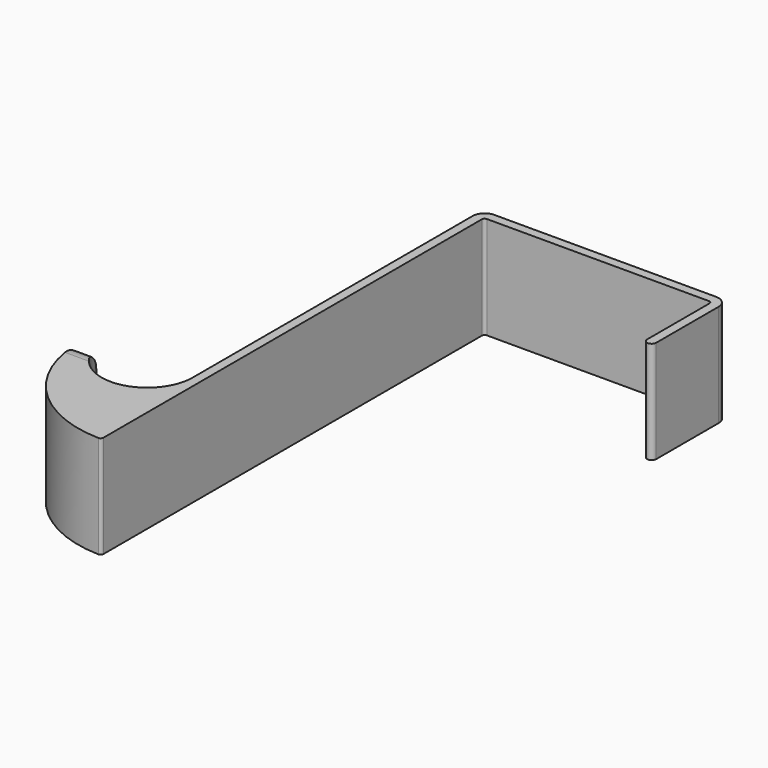
from build123d import *

# Parameters (mm, degrees)
F1_DEPTH = 9
F3_START = -10
F3_DEPTH = 20


with BuildPart() as f1:
    # F0 (on Top) → F1 (new body, symmetric)
    with BuildSketch(Plane.XY):
        with BuildLine():
            ThreePointArc((41.6, -15.8), (42.4, -16.6), (43.2, -15.8))
            Line((43.2, -15.8), (43.2, -2.1))
            ThreePointArc((43.2, -2.1), (42.5849242405, -0.6150757595), (41.1, 0))
            Line((41.1, 0), (2.1, 0))
            ThreePointArc((2.1, 0), (0.6150757595, -0.6150757595), (0, -2.1))
            Line((0, -2.1), (0, -63.6))
            ThreePointArc((0, -63.6), (-7.1872847082, -71.5586113019), (-15.8348734636, -65.2170212766))
            ThreePointArc((-15.8348734636, -65.2170212766), (-17.3482014958, -64.1072430222), (-18.6059763198, -65.5))
            ThreePointArc((-18.6059763198, -65.5), (-12.8679094974, -79.60535621), (1.0873134933, -85.6994710718))
            ThreePointArc((1.0873134933, -85.6994710718), (1.4490392146, -85.5576426968), (1.6, -85.1996320452))
            Line((1.6, -85.1996320452), (1.6, -2.1))
            ThreePointArc((1.6, -2.1), (1.7464466094, -1.7464466094), (2.1, -1.6))
            Line((2.1, -1.6), (41.1, -1.6))
            ThreePointArc((41.1, -1.6), (41.4535533906, -1.7464466094), (41.6, -2.1))
            Line((41.6, -2.1), (41.6, -15.8))
        make_face()
    extrude(amount=F1_DEPTH, both=True)

    # F2 (on Right) → F3 (cut)
    with BuildSketch(Plane.YZ.offset(F3_START)):
        with BuildLine():
            ThreePointArc((-64.7, -5), (-65.8715728753, -7.8284271247), (-68.7, -9))
            Line((-68.7, -9), (-68.7, -10))
            Line((-68.7, -10), (-63.7, -10))
            Line((-63.7, -10), (-63.7, 10))
            Line((-63.7, 10), (-68.7, 10))
            Line((-68.7, 10), (-68.7, 9))
            ThreePointArc((-68.7, 9), (-65.8715728753, 7.8284271247), (-64.7, 5))
            Line((-64.7, 5), (-64.7, -5))
        make_face()
    extrude(amount=-F3_DEPTH, mode=Mode.SUBTRACT)


solid = f1.part
